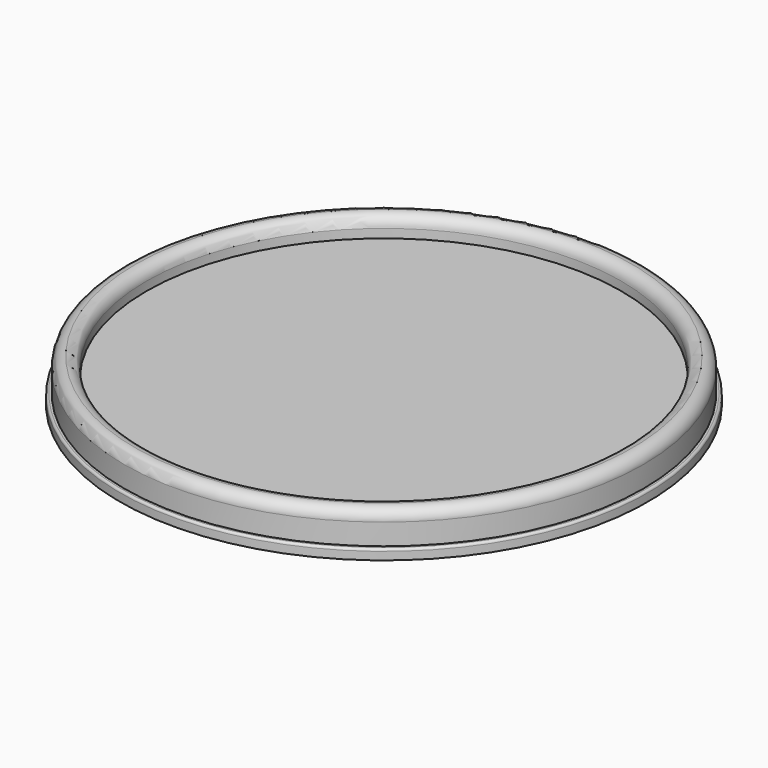
from build123d import *

# Parameters (mm, degrees)
F3_R     = 100.0125
F4_DEPTH = 19.812


with BuildPart() as f2:
    # F1 (on Front) → F2 (revolve)
    with BuildSketch(Plane.XZ):
        with BuildLine():
            Line((0, 0), (-136.525, 0))
            Line((-136.525, 0), (-136.525, 5.08))
            ThreePointArc((-136.525, 5.08), (-138.384872, 9.570128), (-142.875, 11.43))
            ThreePointArc((-142.875, 11.43), (-147.365128, 9.570128), (-149.225, 5.08))
            Line((-149.225, 5.08), (-149.225, -7.112))
            Line((-149.225, -7.112), (-150.495, -7.112))
            ThreePointArc((-150.495, -7.112), (-151.393026, -7.483974), (-151.765, -8.382))
            Line((-151.765, -8.382), (-151.765, -12.954))
            Line((-151.765, -12.954), (-149.479, -12.954))
            Line((-149.479, -12.954), (-149.479, -9.398))
            Line((-149.479, -9.398), (-146.939, -9.398))
            Line((-146.939, -9.398), (-146.939, 5.08))
            ThreePointArc((-146.939, 5.08), (-145.748682, 7.953682), (-142.875, 9.144))
            ThreePointArc((-142.875, 9.144), (-140.001318, 7.953682), (-138.811, 5.08))
            Line((-138.811, 5.08), (-138.811, -2.286))
            Line((-138.811, -2.286), (0, -2.286))
            Line((0, -2.286), (0, 0))
        make_face()
    revolve(axis=Axis((0, 0, 7.549494), (0, 0, -1)))

    # F3 (on face) → F4 (join)
    with BuildSketch(Plane(origin=(0, 0, -2.286), x_dir=(1, 0, 0), z_dir=(0, 0, -1))):
        Circle(F3_R)
    extrude(amount=F4_DEPTH)


solid = f2.part
